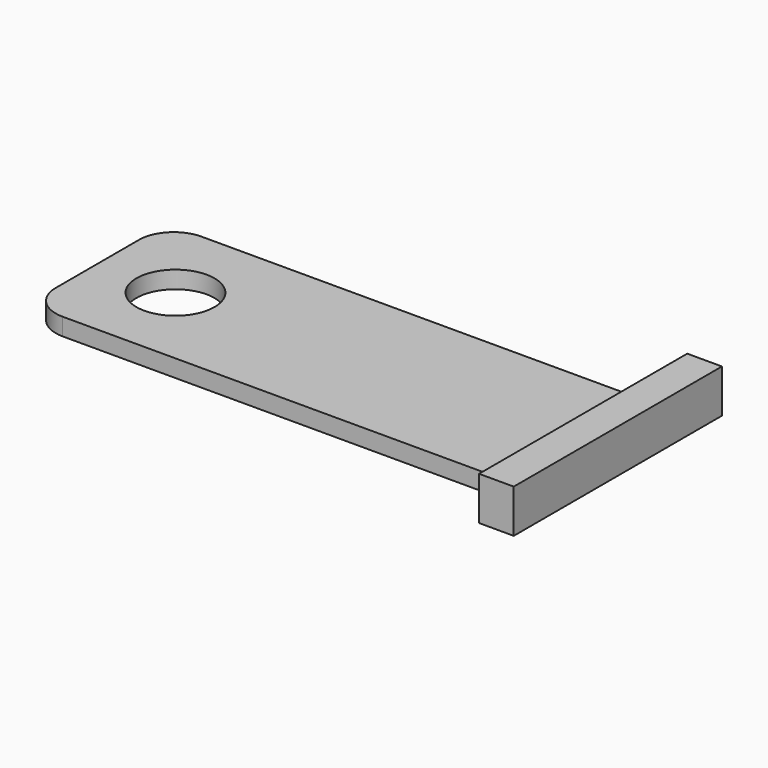
from build123d import *

# Parameters (mm, degrees)
F1_DEPTH      = 4
F1_DEPTH_BACK = 1
F0_W          = 56
F0_H          = 20
F0_R          = 4.5
F2_DEPTH      = 1
F3_R          = 4
F4_R          = 4


with BuildPart() as f1:
    # F0 (on Top) → F1 (new body, two sides)
    with BuildSketch(Plane.XY) as f1_sk:
        Polygon((28, 15), (28, 10), (28, -10), (28, -15), (32, -15), (32, 15), align=None)
    extrude(amount=F1_DEPTH)
    extrude(f1_sk.sketch, amount=-F1_DEPTH_BACK)


with BuildPart() as f2:
    # F0 (on Top) → F2 (new body, symmetric)
    with BuildSketch(Plane.XY):
        Rectangle(F0_W, F0_H)
        with Locations((-19, 0)):
            Circle(F0_R, mode=Mode.SUBTRACT)
    extrude(amount=F2_DEPTH, both=True)

    # F3
    f3_edges = [f2.edges().sort_by_distance(p)[0] for p in [
        (-28, -10, 0),
    ]]
    fillet(f3_edges, radius=F3_R)

    # F4
    f4_edges = [f2.edges().sort_by_distance(p)[0] for p in [
        (-28, 10, 0),
    ]]
    fillet(f4_edges, radius=F4_R)


solid = Compound([f1.part, f2.part])
